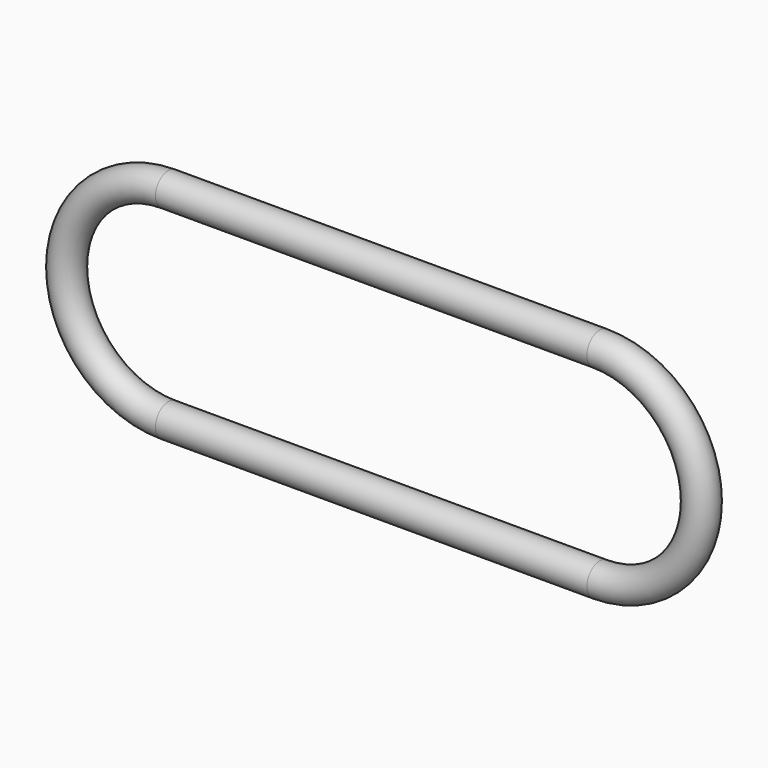
from build123d import *

# Parameters (mm, degrees)
F1_R = 2.38125


with BuildPart() as f2:
    # F2: sweep along a path in F0
    with BuildLine(Plane.XZ) as f2_path:
        Line((0, 12.7), (64, 12.7))
        ThreePointArc((64, 12.7), (76.7, 0), (64, -12.7))
        Line((64, -12.7), (0, -12.7))
        ThreePointArc((0, -12.7), (-12.7, 0), (0, 12.7))
    # F1 (on Right) → F2 (sweep)
    with BuildSketch(Plane.YZ):
        with Locations((0, 15.08125)):
            Circle(F1_R)
    sweep(path=f2_path.line)


solid = f2.part
